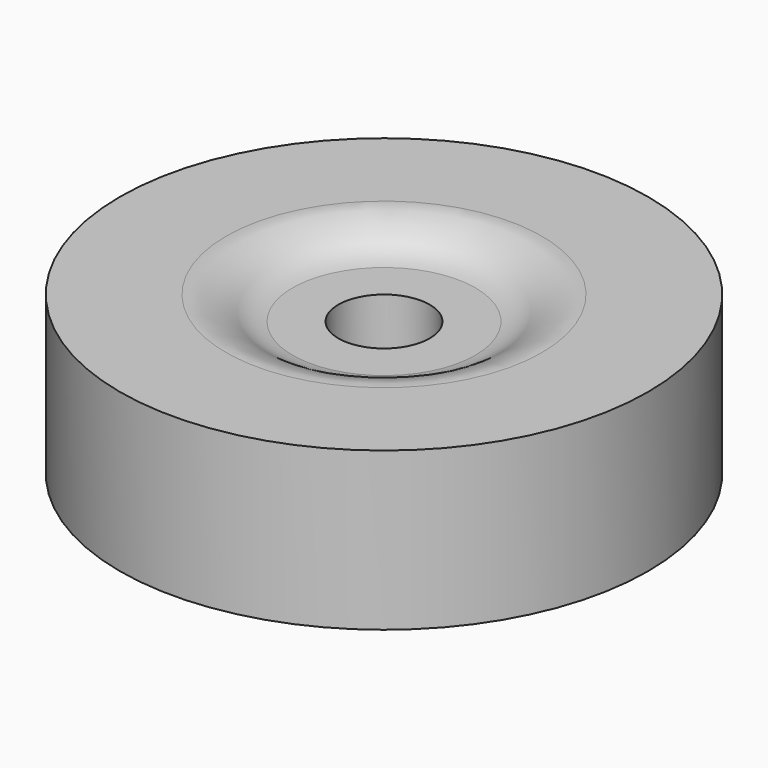
from build123d import *

# Parameters (mm, degrees)
F0_W = 12.8
F0_H = 19


with BuildPart() as f1:
    # F0 (on Front) → F1 (revolve)
    with BuildSketch(Plane.XZ):
        with BuildLine():
            Line((11, 6.625), (5.5, 6.625))
            Line((5.5, 6.625), (5.5, -6.625))
            Line((5.5, -6.625), (11, -6.625))
            add(Edge.make_bspline(
                [(11, -6.625), (12.4770218782, -6.8073266533), (13.8361511082, -7.7060788567), (14.2416545495, -8.0680834721), (16.9917661697, -9.7409561276), (19, -9.5)],
                knots=[0, 0, 0, 0, 0.3689001328, 0.5280858278, 1, 1, 1, 1], degree=3))
            Line((19, -9.5), (19, 9.5))
            add(Edge.make_bspline(
                [(11, 6.625), (12.4770218782, 6.8073266533), (13.8361511082, 7.7060788567), (14.2416545495, 8.0680834721), (16.9917661697, 9.7409561276), (19, 9.5)],
                knots=[0, 0, 0, 0, 0.3689001328, 0.5280858278, 1, 1, 1, 1], degree=3))
        make_face()
        with Locations((25.4, 0)):
            Rectangle(F0_W, F0_H)
    revolve(axis=Axis((0, 0, -0.4735022907), (0, 0, -1)))


solid = f1.part
